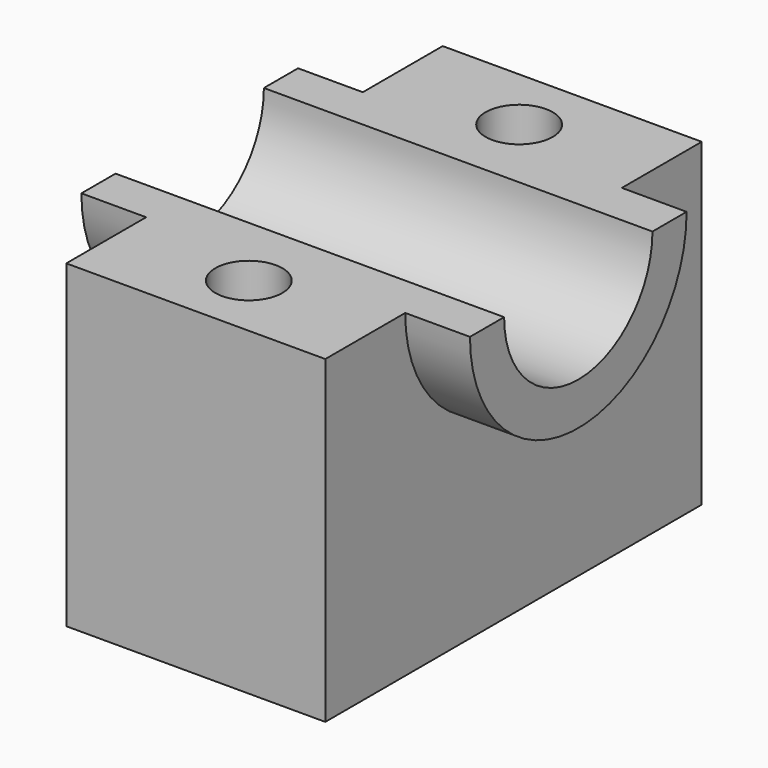
from build123d import *

# Parameters (mm, degrees)
F0_W     = 138.403788
F0_H     = 93.97047
F1_DEPTH = 38.1
F3_DEPTH = 57.15
F4_R     = 27.26818
F5_DEPTH = 63.5
F6_R     = 9.867741
F7_DEPTH = 203.2


with BuildPart() as f1:
    # F0 (on Right) → F1 (new body, symmetric)
    with BuildSketch(Plane.YZ):
        Rectangle(F0_W, F0_H)
    extrude(amount=F1_DEPTH, both=True)

    # F2 (on Right) → F3 (join, symmetric)
    with BuildSketch(Plane.YZ):
        with BuildLine():
            Line((39.828518, 46.985235), (-39.828518, 46.985235))
            ThreePointArc((-39.828518, 46.985235), (0, 7.156717), (39.828518, 46.985235))
        make_face()
    extrude(amount=F3_DEPTH, both=True)

    # F4 (on Right) → F5 (cut, symmetric)
    with BuildSketch(Plane.YZ):
        with Locations((0, 46.985235)):
            Circle(F4_R)
    extrude(amount=F5_DEPTH, both=True, mode=Mode.SUBTRACT)

    # F6 (on face) → F7 (cut)
    with BuildSketch(Plane.XY.offset(46.985235)):
        with Locations((0, 49.696259)):
            Circle(F6_R)
        with Locations((0, -49.696259)):
            Circle(F6_R)
    extrude(amount=-F7_DEPTH, mode=Mode.SUBTRACT)


solid = f1.part
